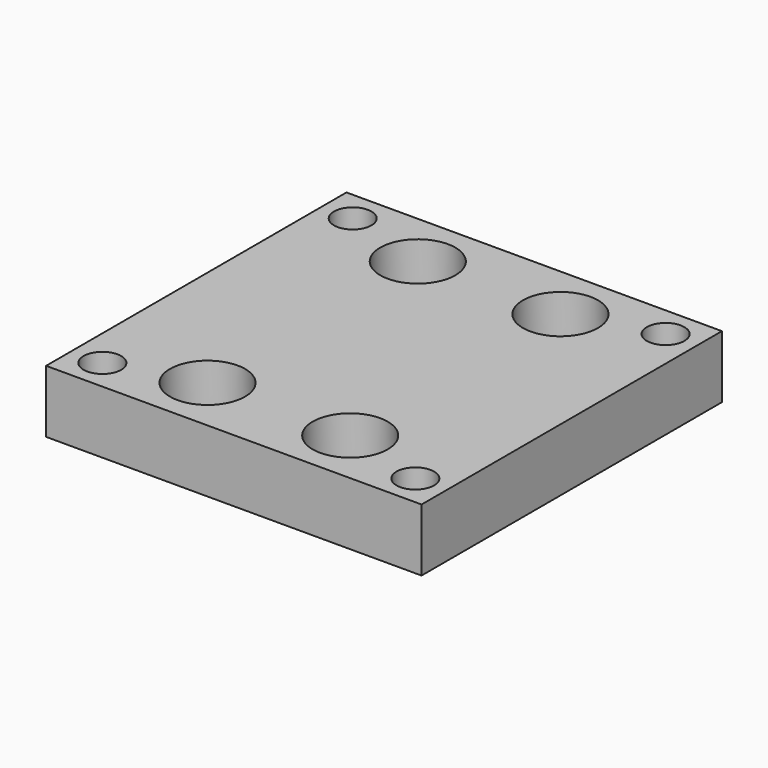
from build123d import *

# Parameters (mm, degrees)
F0_W     = 30
F0_H     = 30
F0_R     = 1.5
F0_R_2   = 1.75
F1_DEPTH = 5
F2_R     = 3
F3_DEPTH = 3.5


with BuildPart() as f1:
    # F0 (on Top) → F1 (new body)
    with BuildSketch(Plane.XY):
        Rectangle(F0_W, F0_H)
        with Locations((-12.5, -12.5)):
            Circle(F0_R, mode=Mode.SUBTRACT)
        with Locations((-5.7, -10.5)):
            Circle(F0_R_2, mode=Mode.SUBTRACT)
        with Locations((5.7, -10.5)):
            Circle(F0_R_2, mode=Mode.SUBTRACT)
        with Locations((12.5, -12.5)):
            Circle(F0_R, mode=Mode.SUBTRACT)
        with Locations((-12.5, 12.5)):
            Circle(F0_R, mode=Mode.SUBTRACT)
        with Locations((-5.7, 10.5)):
            Circle(F0_R_2, mode=Mode.SUBTRACT)
        with Locations((5.7, 10.5)):
            Circle(F0_R_2, mode=Mode.SUBTRACT)
        with Locations((12.5, 12.5)):
            Circle(F0_R, mode=Mode.SUBTRACT)
    extrude(amount=F1_DEPTH)

    # F2 (on face) → F3 (cut)
    with BuildSketch(Plane.XY.offset(5)):
        with Locations((-5.7, 10.5)):
            Circle(F2_R)
        with Locations((5.7, 10.5)):
            Circle(F2_R)
        with Locations((5.7, -10.5)):
            Circle(F2_R)
        with Locations((-5.7, -10.5)):
            Circle(F2_R)
    extrude(amount=-F3_DEPTH, mode=Mode.SUBTRACT)


solid = f1.part
